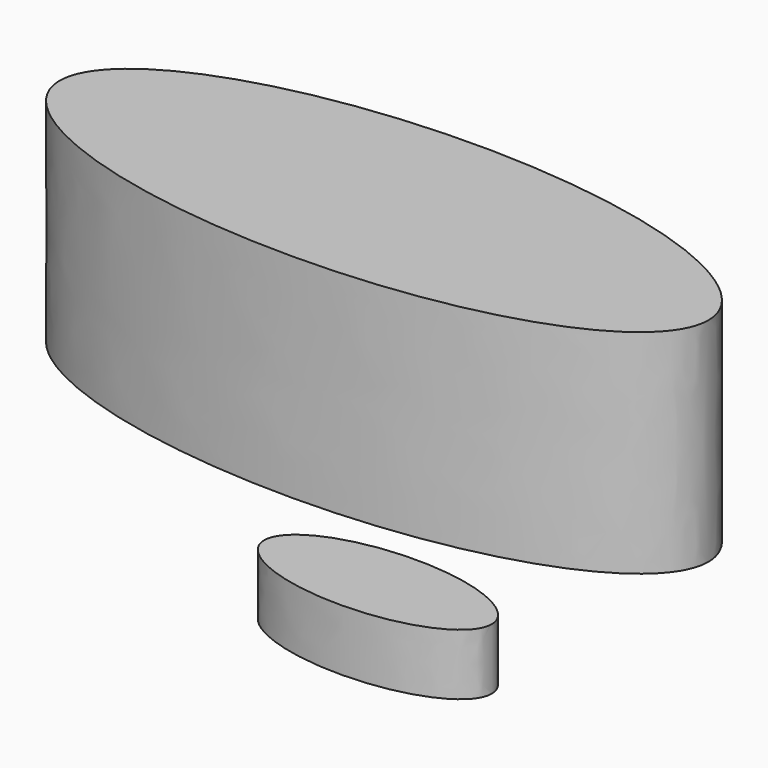
from build123d import *

# Parameters (mm, degrees)
F1_DEPTH = 37.084
F3_DEPTH = 10.668


with BuildPart() as f1:
    # F0 (on Top) → F1 (new body)
    with BuildSketch(Plane.XY):
        with BuildLine():
            add(Edge.make_bspline(
                [(49.259342, 11.513279), (49.259342, 47.322894), (-35.56, 29.418086), (-120.379343, 11.513279), (-35.56, -6.391529), (49.259342, -24.296336), (49.259342, 11.513279)],
                knots=[0, 0, 0, 2.094395, 2.094395, 4.18879, 4.18879, 6.283185, 6.283185, 6.283185], degree=2, weights=[1, 0.5, 1, 0.5, 1, 0.5, 1]))
        make_face()
    extrude(amount=F1_DEPTH)


with BuildPart() as f3:
    # F2 (on Top) → F3 (new body)
    with BuildSketch(Plane.XY):
        with BuildLine():
            add(Edge.make_bspline(
                [(50.514974, -37.273511), (50.514974, -22.694083), (20.76701, -29.983797), (-8.980954, -37.273511), (20.76701, -44.563226), (50.514974, -51.85294), (50.514974, -37.273511)],
                knots=[0, 0, 0, 2.094395, 2.094395, 4.18879, 4.18879, 6.283185, 6.283185, 6.283185], degree=2, weights=[1, 0.5, 1, 0.5, 1, 0.5, 1]))
        make_face()
    extrude(amount=F3_DEPTH)


solid = Compound([f1.part, f3.part])
